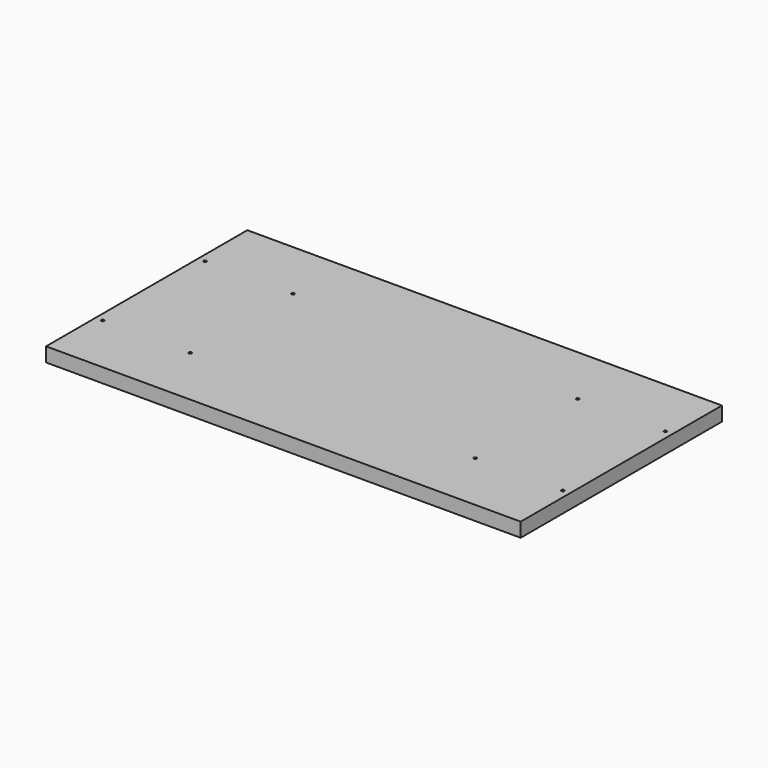
from build123d import *

# Parameters (mm, degrees)
F0_W      = 1000
F0_H      = 530
F1_DEPTH  = 30
F2_R      = 3
F3_DEPTH  = 12
F4_R      = 3
F5_DEPTH  = 12
F6_R      = 3
F7_DEPTH  = 12
F9_R      = 3
F8_R      = 3
F10_DEPTH = 12
F11_R     = 3
F12_DEPTH = 12


with BuildPart() as f1:
    # F0 (on Top) → F1 (new body)
    with BuildSketch(Plane.XY):
        with Locations((-500, 265)):
            Rectangle(F0_W, F0_H)
    extrude(amount=F1_DEPTH)

    # F2 (on face) → F3 (cut)
    with BuildSketch(Plane.XY.offset(30)):
        with Locations((-200, 130)):
            Circle(F2_R)
    extrude(amount=-F3_DEPTH, mode=Mode.SUBTRACT)

    # F4 (on face) → F5 (cut)
    with BuildSketch(Plane.XY.offset(30)):
        with Locations((-800, 130)):
            Circle(F4_R)
    extrude(amount=-F5_DEPTH, mode=Mode.SUBTRACT)

    # F6 (on face) → F7 (cut)
    with BuildSketch(Plane.XY.offset(30)):
        with Locations((-200, 400)):
            Circle(F6_R)
        with Locations((-800, 400)):
            Circle(F6_R)
    extrude(amount=-F7_DEPTH, mode=Mode.SUBTRACT)

    # F9 (on face) + F8 (on face) → F10 (cut)
    with BuildSketch(Plane.XY.offset(30)):
        with Locations((-985, 130)):
            Circle(F9_R)
    with BuildSketch(Plane.XY.offset(30)):
        with Locations((-985, 400)):
            Circle(F8_R)
    extrude(amount=-F10_DEPTH, mode=Mode.SUBTRACT)

    # F11 (on face) → F12 (cut)
    with BuildSketch(Plane.XY.offset(30)):
        with Locations((-15, 400)):
            Circle(F11_R)
        with Locations((-15, 130)):
            Circle(F11_R)
    extrude(amount=-F12_DEPTH, mode=Mode.SUBTRACT)


solid = f1.part
